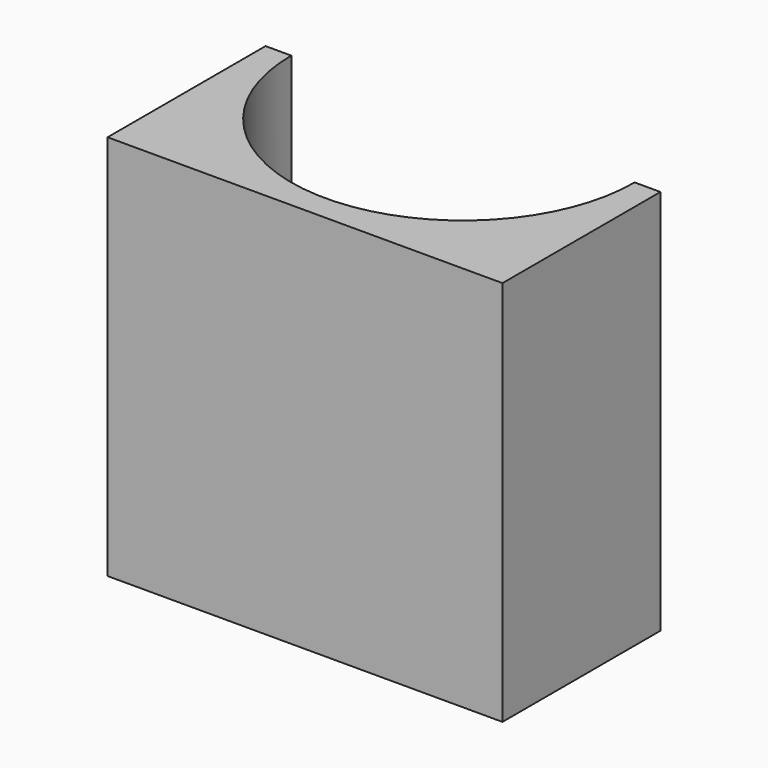
from build123d import *

# Parameters (mm, degrees)
F0_R     = 200
F1_DEPTH = 225
F2_W     = 460
F2_H     = 450
F3_DEPTH = 230


with BuildPart() as f1:
    # F0 (on Top) → F1 (new body, symmetric)
    with BuildSketch(Plane.XY):
        Circle(F0_R)
    extrude(amount=F1_DEPTH, both=True)


with BuildPart() as f3:
    # F2 (on Front) → F3 (new body)
    with BuildSketch(Plane.XZ):
        Rectangle(F2_W, F2_H)
    extrude(amount=F3_DEPTH)

    # F4: cut F1
    add(f1.part, mode=Mode.SUBTRACT)


solid = f3.part
